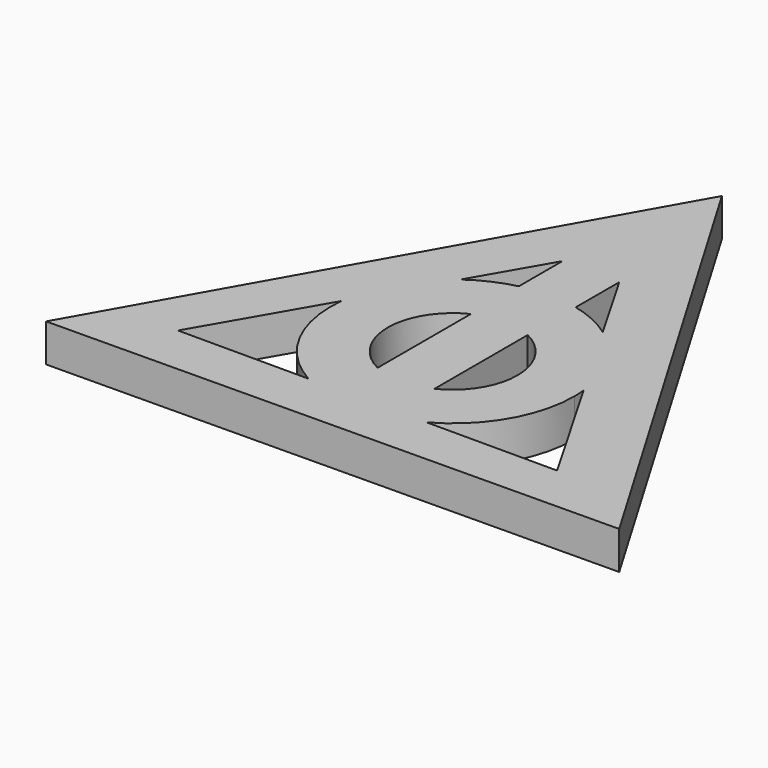
from build123d import *

# Parameters (mm, degrees)
F1_DEPTH = 2


with BuildPart() as f1:
    # F0 (on Top) → F1 (new body)
    with BuildSketch(Plane.XY):
        Polygon((0, 37.0993459599), (-15.2503082156, 62.9339758068), (-29.9985998526, 36.8095065531), align=None)
        with BuildLine():
            Line((-16.7503082156, 54.2909231444), (-15.2503082156, 56.8889993558))
            Line((-15.2503082156, 56.8889993558), (-13.7503082156, 54.2909231444))
            Line((-13.7503082156, 54.2909231444), (-11.4959733703, 50.3863006551))
            ThreePointArc((-11.4959733703, 50.3863006551), (-9.6912610985, 48.3891898888), (-8.8640685766, 45.8277078316))
            Line((-8.8640685766, 45.8277078316), (-5.2503082156, 39.5684912801))
            Line((-5.2503082156, 39.5684912801), (-12.1328330603, 39.5684912801))
            ThreePointArc((-12.1328330603, 39.5684912801), (-15.2503082156, 38.7606378402), (-18.367783371, 39.5684912801))
            Line((-18.367783371, 39.5684912801), (-25.2503082156, 39.5684912801))
            Line((-25.2503082156, 39.5684912801), (-21.6365478547, 45.8277078316))
            ThreePointArc((-21.6365478547, 45.8277078316), (-20.8093553328, 48.3891898888), (-19.0046430609, 50.3863006551))
            Line((-19.0046430609, 50.3863006551), (-16.7503082156, 54.2909231444))
        make_face(mode=Mode.SUBTRACT)
        with BuildLine():
            Line((-8.8640685766, 45.8277078316), (-11.4959733703, 50.3863006551))
            ThreePointArc((-11.4959733703, 50.3863006551), (-12.5726875114, 51.0135695071), (-13.7503082156, 51.4209870216))
            Line((-13.7503082156, 51.4209870216), (-13.7503082156, 48.25209801))
            ThreePointArc((-13.7503082156, 48.25209801), (-12.3504504327, 46.9909215868), (-11.8312735166, 45.1796725392))
            ThreePointArc((-11.8312735166, 45.1796725392), (-12.3504504327, 43.3684234917), (-13.7503082156, 42.1072470685))
            Line((-13.7503082156, 42.1072470685), (-13.7503082156, 39.5684912801))
            Line((-13.7503082156, 39.5684912801), (-12.1328330603, 39.5684912801))
            ThreePointArc((-12.1328330603, 39.5684912801), (-9.7178951949, 41.9244593917), (-8.8312735166, 45.1796725392))
            ThreePointArc((-8.8312735166, 45.1796725392), (-8.8394775243, 45.5041048342), (-8.8640685766, 45.8277078316))
        make_face()
        with BuildLine():
            ThreePointArc((-16.7503082156, 51.4209870216), (-17.9279289199, 51.0135695071), (-19.0046430609, 50.3863006551))
            Line((-19.0046430609, 50.3863006551), (-21.6365478547, 45.8277078316))
            ThreePointArc((-21.6365478547, 45.8277078316), (-20.9401761124, 42.208240261), (-18.367783371, 39.5684912801))
            Line((-18.367783371, 39.5684912801), (-16.7503082156, 39.5684912801))
            Line((-16.7503082156, 39.5684912801), (-16.7503082156, 42.1072470685))
            ThreePointArc((-16.7503082156, 42.1072470685), (-18.6693429147, 45.1796725392), (-16.7503082156, 48.25209801))
            Line((-16.7503082156, 48.25209801), (-16.7503082156, 51.4209870216))
        make_face()
        with BuildLine():
            Line((-16.7503082156, 39.5684912801), (-18.367783371, 39.5684912801))
            ThreePointArc((-18.367783371, 39.5684912801), (-15.2503082156, 38.7606378402), (-12.1328330603, 39.5684912801))
            Line((-12.1328330603, 39.5684912801), (-13.7503082156, 39.5684912801))
            Line((-13.7503082156, 39.5684912801), (-16.7503082156, 39.5684912801))
        make_face()
        with BuildLine():
            ThreePointArc((-13.7503082156, 51.4209870216), (-15.2503082156, 51.5987072383), (-16.7503082156, 51.4209870216))
            Line((-16.7503082156, 51.4209870216), (-16.7503082156, 48.25209801))
            ThreePointArc((-16.7503082156, 48.25209801), (-15.2503082156, 48.5987072383), (-13.7503082156, 48.25209801))
            Line((-13.7503082156, 48.25209801), (-13.7503082156, 51.4209870216))
        make_face()
        with BuildLine():
            ThreePointArc((-13.7503082156, 48.25209801), (-15.2503082156, 48.5987072383), (-16.7503082156, 48.25209801))
            Line((-16.7503082156, 48.25209801), (-16.7503082156, 42.1072470685))
            ThreePointArc((-16.7503082156, 42.1072470685), (-15.2503082156, 41.7606378402), (-13.7503082156, 42.1072470685))
            Line((-13.7503082156, 42.1072470685), (-13.7503082156, 48.25209801))
        make_face()
        with BuildLine():
            Line((-13.7503082156, 54.2909231444), (-15.2503082156, 56.8889993558))
            Line((-15.2503082156, 56.8889993558), (-16.7503082156, 54.2909231444))
            Line((-16.7503082156, 54.2909231444), (-16.7503082156, 51.4209870216))
            ThreePointArc((-16.7503082156, 51.4209870216), (-15.2503082156, 51.5987072383), (-13.7503082156, 51.4209870216))
            Line((-13.7503082156, 51.4209870216), (-13.7503082156, 54.2909231444))
        make_face()
        with BuildLine():
            Line((-21.6365478547, 45.8277078316), (-19.0046430609, 50.3863006551))
            ThreePointArc((-19.0046430609, 50.3863006551), (-20.8093553328, 48.3891898888), (-21.6365478547, 45.8277078316))
        make_face()
        with BuildLine():
            ThreePointArc((-8.8640685766, 45.8277078316), (-9.6912610985, 48.3891898888), (-11.4959733703, 50.3863006551))
            Line((-11.4959733703, 50.3863006551), (-8.8640685766, 45.8277078316))
        make_face()
        with BuildLine():
            ThreePointArc((-13.7503082156, 42.1072470685), (-15.2503082156, 41.7606378402), (-16.7503082156, 42.1072470685))
            Line((-16.7503082156, 42.1072470685), (-16.7503082156, 39.5684912801))
            Line((-16.7503082156, 39.5684912801), (-13.7503082156, 39.5684912801))
            Line((-13.7503082156, 39.5684912801), (-13.7503082156, 42.1072470685))
        make_face()
    extrude(amount=F1_DEPTH)


solid = f1.part
